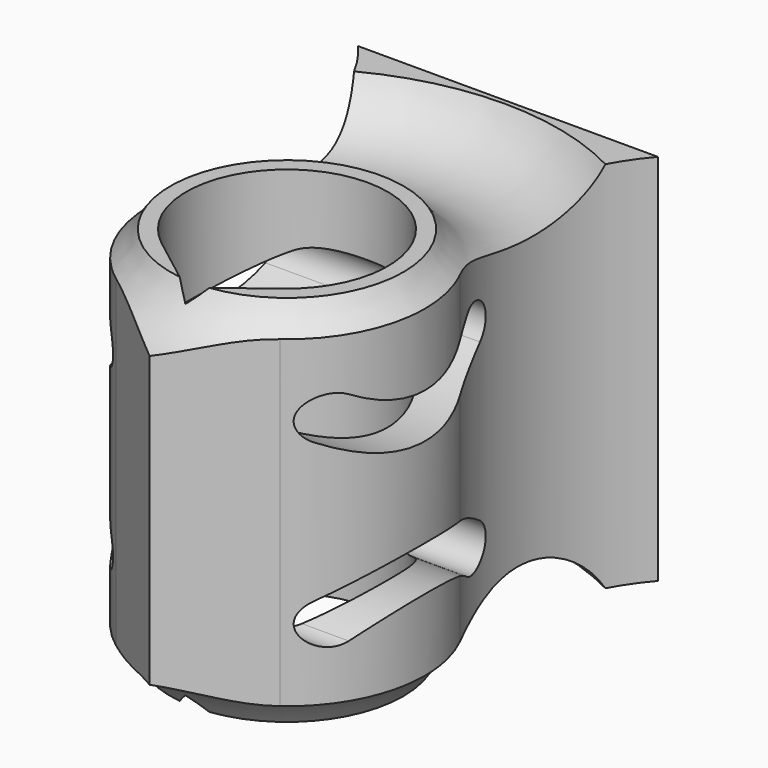
from build123d import *

# Parameters (mm, degrees)
F1_DEPTH = 25
F2_R     = 6
F5_DEPTH = 12.5


with BuildPart() as f1:
    # F0 (on Top) → F1 (new body)
    with BuildSketch(Plane.XY):
        with BuildLine():
            ThreePointArc((-8.2631306829, 4.1573033708), (0, 9.25), (8.2631306829, 4.1573033708))
            ThreePointArc((8.2631306829, 4.1573033708), (6.9748091465, 11.5983273999), (10.0400214238, 18.5))
            Line((10.0400214238, 18.5), (-10.0400214238, 18.5))
            ThreePointArc((-10.0400214238, 18.5), (-6.9748091465, 11.5983273999), (-8.2631306829, 4.1573033708))
        make_face()
        with BuildLine():
            Line((0, -11.5), (5.4959680831, -7.4402173913))
            ThreePointArc((5.4959680831, -7.4402173913), (8.9974341715, -2.1467832518), (8.2631306829, 4.1573033708))
            ThreePointArc((8.2631306829, 4.1573033708), (0, 9.25), (-8.2631306829, 4.1573033708))
            ThreePointArc((-8.2631306829, 4.1573033708), (-8.9974341715, -2.1467832518), (-5.4959680831, -7.4402173913))
            Line((-5.4959680831, -7.4402173913), (0, -11.5))
        make_face()
        with BuildLine():
            ThreePointArc((-4.1024074605, -5.3602941176), (0, 6.75), (4.1024074605, -5.3602941176))
            Line((4.1024074605, -5.3602941176), (0, -8.5))
            Line((0, -8.5), (-4.1024074605, -5.3602941176))
        make_face(mode=Mode.SUBTRACT)
    extrude(amount=F1_DEPTH)

    # F2 (on Front) → F3 (revolve, cut)
    with BuildSketch(Plane.XZ):
        with Locations((13, 28)):
            Circle(F2_R)
        with Locations((13, -3)):
            Circle(F2_R)
    revolve(axis=Axis((0, 0, 0), (0, 0, -1)), mode=Mode.SUBTRACT)

    # F4 (on Right) → F5 (cut, symmetric)
    with BuildSketch(Plane.YZ):
        with BuildLine():
            ThreePointArc((5.4489761453, 20.2180555793), (0.41438418, 18.509041895), (-4.75, 19.772758664))
            ThreePointArc((-4.75, 19.772758664), (-6.7990381057, 19.2237205584), (-6.25, 17.1746824527))
            ThreePointArc((-6.25, 17.1746824527), (0.5452423421, 15.5118972302), (7.1697054544, 17.7605994464))
            ThreePointArc((7.1697054544, 17.7605994464), (7.5380688663, 19.8496921673), (5.4489761453, 20.2180555793))
        make_face()
        with BuildLine():
            ThreePointArc((-4.75, 5.227241336), (0.41438418, 6.490958105), (5.4489761453, 4.7819444207))
            ThreePointArc((5.4489761453, 4.7819444207), (7.5380688663, 5.1503078327), (7.1697054544, 7.2394005536))
            ThreePointArc((7.1697054544, 7.2394005536), (0.5452423421, 9.4881027698), (-6.25, 7.8253175473))
            ThreePointArc((-6.25, 7.8253175473), (-6.7990381057, 5.7762794416), (-4.75, 5.227241336))
        make_face()
    extrude(amount=F5_DEPTH, both=True, mode=Mode.SUBTRACT)


solid = f1.part
